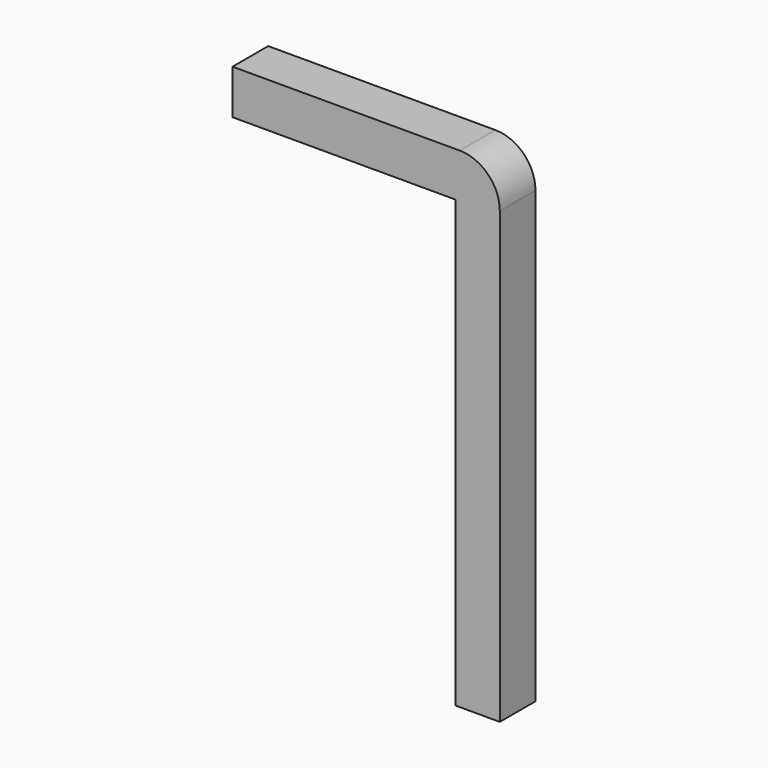
from build123d import *

# Parameters (mm, degrees)
BOX018_W     = 3
BOX018_H     = 0.5
BOX018_DEPTH = 0.5
BOX015_W     = 0.5
BOX015_H     = 0.5
BOX015_DEPTH = 5.5
FILLET007_R  = 0.45


with BuildPart() as kub018:
    # Box018 → Box018 (new body)
    with BuildSketch(Plane(origin=(-2.75, -2.79, 2), x_dir=(1, 0, 0), z_dir=(0, 0, 1))):
        with Locations((1.5, 0.25)):
            Rectangle(BOX018_W, BOX018_H)
    extrude(amount=BOX018_DEPTH)


with BuildPart() as fillet007:
    # Box015 → Box015 (new body)
    with BuildSketch(Plane(origin=(-0.25, -2.79, -3), x_dir=(1, 0, 0), z_dir=(0, 0, 1))):
        with Locations((0.25, 0.25)):
            Rectangle(BOX015_W, BOX015_H)
    extrude(amount=BOX015_DEPTH)

    # Fusion004: union Kub018
    add(kub018.part)

    # Fillet007
    fillet007_edges = [fillet007.edges().sort_by_distance(p)[0] for p in [
        (0.25, -2.54, 2.5),
    ]]
    fillet(fillet007_edges, radius=FILLET007_R)


solid = fillet007.part
